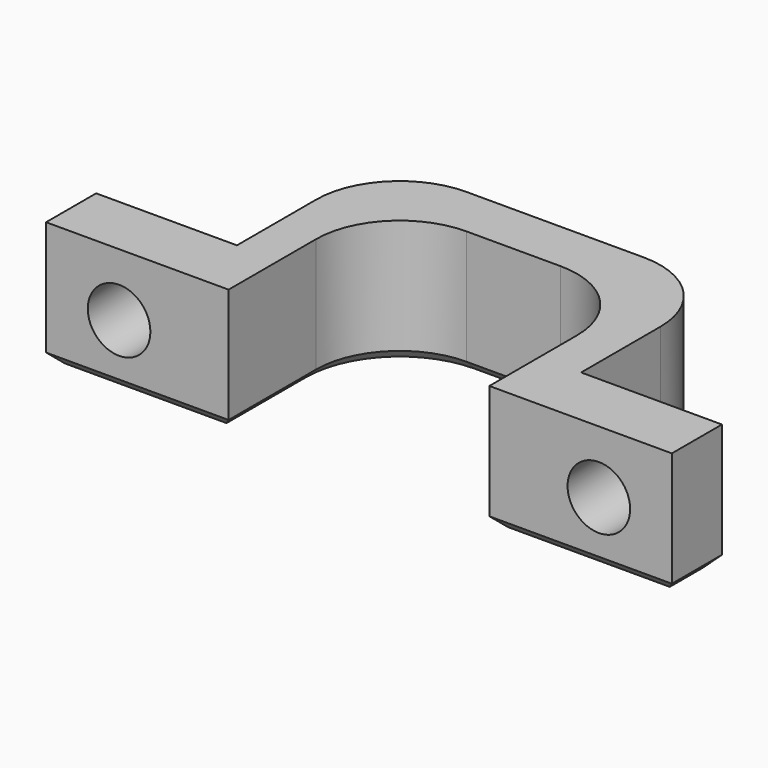
from build123d import *

# Parameters (mm, degrees)
PAD_DEPTH    = 6
SKETCH001_R  = 1.5
POCKET_DEPTH = 5
FILLET_R     = 4
CHAMFER_SIZE = 0.5


with BuildPart() as part:
    # Sketch → Pad (new body)
    with BuildSketch(Plane.XY):
        Polygon((-15, 0), (-6.25, 0), (-6.25, 9.25), (6.25, 9.25), (6.25, 0), (15, 0), (15, 3), (8.25, 3), (8.25, 11.75), (-8.25, 11.75), (-8.25, 3), (-15, 3), align=None)
    extrude(amount=PAD_DEPTH)

    # Sketch001 → Pocket (cut)
    with BuildSketch(Plane.XZ):
        with Locations((-11.5, 3)):
            Circle(SKETCH001_R)
        with Locations((11.5, 3)):
            Circle(SKETCH001_R)
    extrude(amount=-POCKET_DEPTH, mode=Mode.SUBTRACT)

    # Fillet
    fillet_edges = [part.edges().sort_by_distance(p)[0] for p in [
        (6.25, 9.25, 3),
        (-6.25, 9.25, 3),
        (-8.25, 11.75, 3),
        (8.25, 11.75, 3),
    ]]
    fillet(fillet_edges, radius=FILLET_R)

    # Chamfer
    chamfer_edges = [part.edges().sort_by_distance(p)[0] for p in [
        (-6.25, 2.625, 0),
        (-5.078427, 8.078427, 0),
        (-10.625, 0, 0),
        (0, 9.25, 0),
        (-15, 1.5, 0),
        (5.078427, 8.078427, 0),
        (-11.625, 3, 0),
        (6.25, 2.625, 0),
        (-8.25, 5.375, 0),
        (10.625, 0, 0),
        (-7.078427, 10.578427, 0),
        (15, 1.5, 0),
        (0, 11.75, 0),
        (11.625, 3, 0),
        (7.078427, 10.578427, 0),
        (8.25, 5.375, 0),
    ]]
    chamfer(chamfer_edges, length=CHAMFER_SIZE)


solid = part.part
